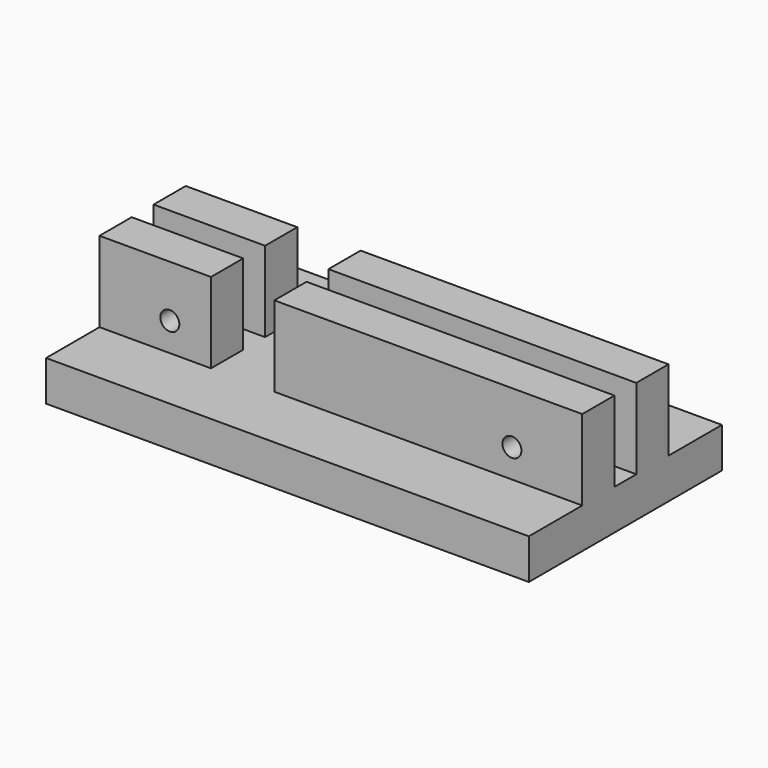
from build123d import *

# Parameters (mm, degrees)
F0_W     = 76.2
F0_H     = 38.1
F1_DEPTH = 6.35
F2_W     = 6.35
F2_H     = 19.05
F3_DEPTH = 76.2
F4_R     = 1.5
F4_W     = 10
F4_H     = 12.7
F5_DEPTH = 17.018


with BuildPart() as f1:
    # F0 (on Top) → F1 (new body)
    with BuildSketch(Plane.XY):
        Rectangle(F0_W, F0_H)
    extrude(amount=F1_DEPTH)

    # F2 (on face) → F3 (join, through all)
    with BuildSketch(Plane.YZ.offset(38.1)):
        with Locations((-5.334, 9.525)):
            Rectangle(F2_W, F2_H)
        with Locations((5.334, 9.525)):
            Rectangle(F2_W, F2_H)
    extrude(amount=-F3_DEPTH)

    # F4 (on face) → F5 (cut, through all)
    with BuildSketch(Plane.XZ.offset(8.509)):
        with Locations((-27, 10.85)):
            Circle(F4_R)
        with Locations((27, 10.85)):
            Circle(F4_R)
        with Locations((-15.5, 12.7)):
            Rectangle(F4_W, F4_H)
    extrude(amount=-F5_DEPTH, mode=Mode.SUBTRACT)


solid = f1.part
